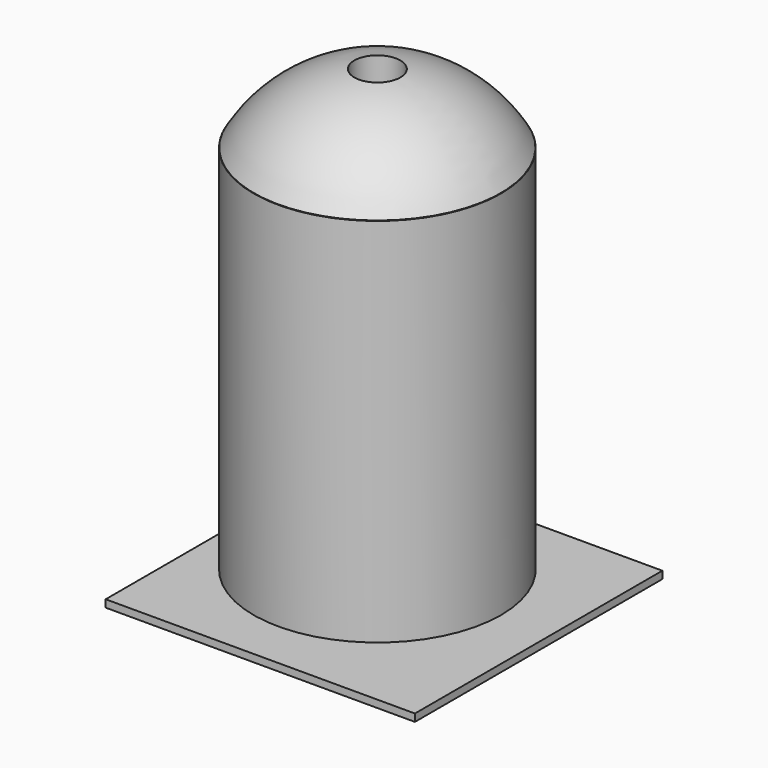
from build123d import *

# Parameters (mm, degrees)
F0_W     = 125
F0_H     = 125
F1_DEPTH = 3
F2_R     = 50
F3_DEPTH = 150
F6_R     = 11.992359
F6_R_2   = 8.991762
F6_R_3   = 8.722489
F7_DEPTH = 76.2
F8_R     = 9.308466
F9_DEPTH = 181.809588


with BuildPart() as f1:
    # F0 (on Top) → F1 (new body)
    with BuildSketch(Plane.XY):
        with Locations((8.287821, -6.991455)):
            Rectangle(F0_W, F0_H)
    extrude(amount=F1_DEPTH)

    # F2 (on face) → F3 (join)
    with BuildSketch(Plane.XY.offset(3)):
        Circle(F2_R)
    extrude(amount=F3_DEPTH)

    # F6 (on Front) → F7 (cut)
    with BuildSketch(Plane.XZ):
        with Locations((0, 22.612009)):
            Circle(F6_R)
        with Locations((0, 135.925442)):
            Circle(F6_R_2)
        with Locations((0, 105.414167)):
            Circle(F6_R_3)
    extrude(amount=-F7_DEPTH, mode=Mode.SUBTRACT)


with BuildPart() as f5:
    # F4 (on Front) → F5 (revolve)
    with BuildSketch(Plane.XZ):
        with BuildLine():
            ThreePointArc((0, 181.808025), (-28.817127, 174.19098), (-49.920975, 153.141662))
            Line((-49.920975, 153.141662), (0, 153.141662))
            Line((0, 153.141662), (0, 181.808025))
        make_face()
    revolve(axis=Axis((0, 0, 135.424778), (0, 0, -1)))


with BuildPart() as f9_tool:
    # F8 (on Top) → F9 (new body, through all)
    with BuildSketch(Plane.XY):
        Circle(F8_R)
    extrude(amount=F9_DEPTH)


with BuildPart() as f1_1:
    add(f1.part)

    # F9: cut by f9_tool
    add(f9_tool.part, mode=Mode.SUBTRACT)


with BuildPart() as f5_1:
    add(f5.part)

    # F9: cut by f9_tool
    add(f9_tool.part, mode=Mode.SUBTRACT)


solid = Compound([f1_1.part, f5_1.part])
